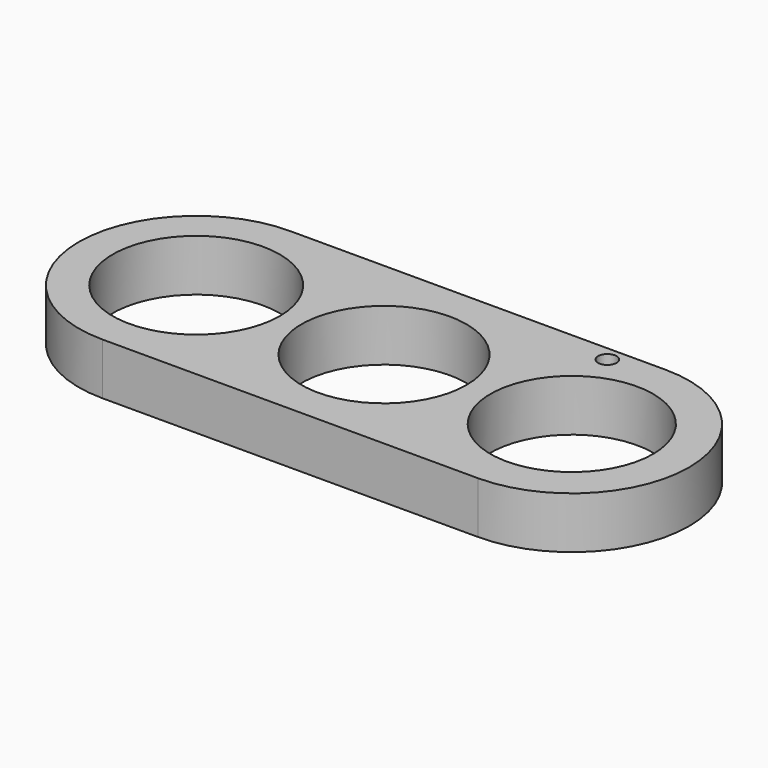
from build123d import *

# Parameters (mm, degrees)
F0_R     = 11.3
F0_R_2   = 11.15
F0_R_3   = 11
F0_R_4   = 1.251277
F1_DEPTH = 7


with BuildPart() as f1:
    # F0 (on Top) → F1 (new body)
    with BuildSketch(Plane.XY):
        with BuildLine():
            Line((25.4, 15.875), (-25.4, 15.875))
            ThreePointArc((-25.4, 15.875), (-41.275, 0), (-25.4, -15.875))
            Line((-25.4, -15.875), (25.4, -15.875))
            ThreePointArc((25.4, -15.875), (41.275, 0), (25.4, 15.875))
        make_face()
        with Locations((-25.4, 0)):
            Circle(F0_R, mode=Mode.SUBTRACT)
        Circle(F0_R_2, mode=Mode.SUBTRACT)
        with Locations((25.4, 0)):
            Circle(F0_R_3, mode=Mode.SUBTRACT)
        with Locations((19.11639, 13.862383)):
            Circle(F0_R_4, mode=Mode.SUBTRACT)
    extrude(amount=F1_DEPTH)


solid = f1.part
